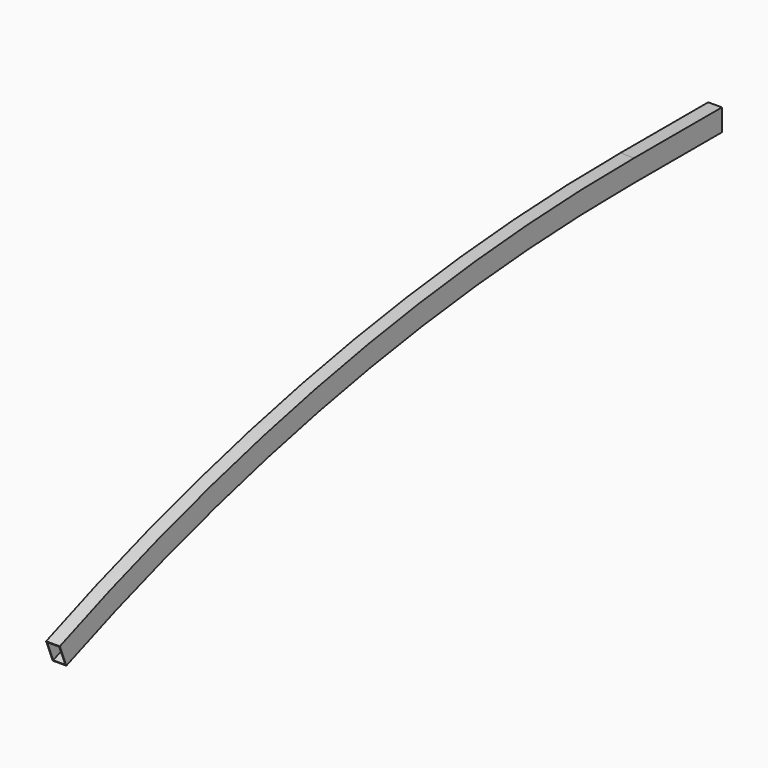
from build123d import *

# Parameters (mm, degrees)
F0_W   = 50
F0_H   = 80
F0_W_2 = 44
F0_H_2 = 74


with BuildPart() as f2:
    # F2: sweep along a path in F1
    with BuildLine(Plane.YZ) as f2_path:
        Line((0, 0), (-400, 0))
        ThreePointArc((-400, 0), (-1723.8202294874, -126.1348066657), (-3000, -500))
    # F0 (on Front) → F2 (sweep)
    with BuildSketch(Plane.XZ):
        Rectangle(F0_W, F0_H)
        Rectangle(F0_W_2, F0_H_2, mode=Mode.SUBTRACT)
    sweep(path=f2_path.line)


solid = f2.part
